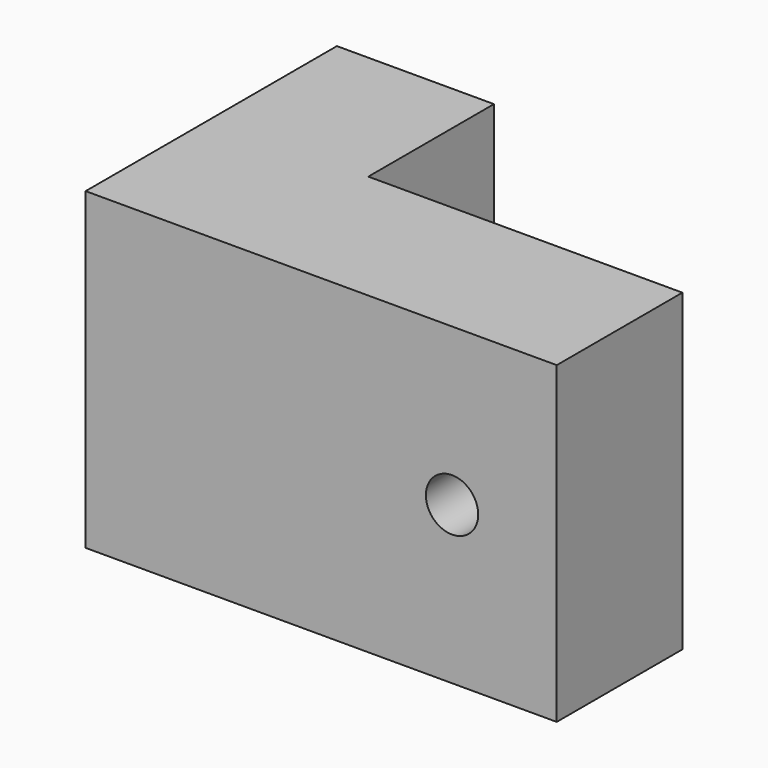
from build123d import *

# Parameters (mm, degrees)
F1_DEPTH = 6
F2_R     = 0.5
F3_DEPTH = 3.001


with BuildPart() as f1:
    # F0 (on Top) → F1 (new body)
    with BuildSketch(Plane.XY):
        Polygon((0, 6), (0, 0), (9, 0), (9, 3), (3, 3), (3, 6), align=None)
    extrude(amount=F1_DEPTH)

    # F2 (on face) → F3 (cut, through all)
    with BuildSketch(Plane(origin=(0, 3, 0), x_dir=(-1, 0, 0), z_dir=(0, 1, 0))):
        with Locations((-7, 3)):
            Circle(F2_R)
    extrude(amount=-F3_DEPTH, mode=Mode.SUBTRACT)


solid = f1.part
